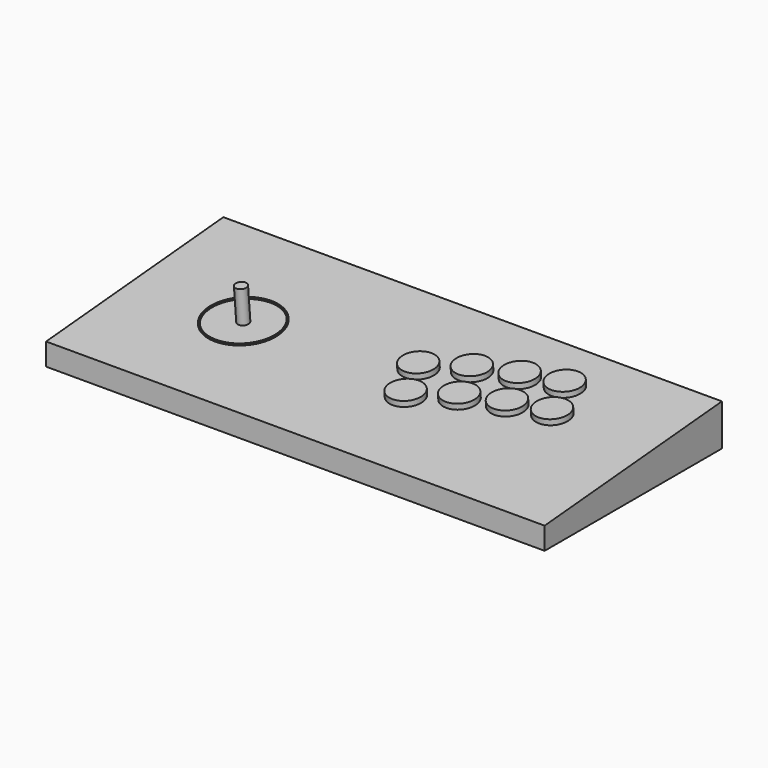
from build123d import *

# Parameters (mm, degrees)
F0_W     = 450
F0_H     = 200
F1_DEPTH = 20
F3_DEPTH = 450
F4_R     = 15
F5_DEPTH = 5
F4_R_2   = 32
F4_R_3   = 30.75
F6_DEPTH = 1
F4_R_4   = 5
F7_DEPTH = 30


with BuildPart() as f1:
    # F0 (on Top) → F1 (new body)
    with BuildSketch(Plane.XY):
        Rectangle(F0_W, F0_H)
    extrude(amount=F1_DEPTH)

    # F2 (on face) → F3 (join)
    with BuildSketch(Plane.YZ.offset(225)):
        Polygon((100, 37.4977327052), (-100, 20), (100, 20), align=None)
    extrude(amount=-F3_DEPTH)

    # F4 (on face) → F5 (join)
    with BuildSketch(Plane(origin=(0, -2.4960941261, 28.5304864135), x_dir=(1, 0, 0), z_dir=(0, -0.0871557427, 0.9961946981))):
        with Locations((17.8897663927, 19.1961097517)):
            Circle(F4_R)
        with Locations((33.6060567503, -14.8038902483)):
            Circle(F4_R)
        with Locations((51.8897663927, 37.2408752097)):
            Circle(F4_R)
        with Locations((67.6060567503, 3.2408752097)):
            Circle(F4_R)
        with Locations((85.8897663927, 48.6903541087)):
            Circle(F4_R)
        with Locations((101.6060567503, 14.6903541087)):
            Circle(F4_R)
        with Locations((119.8897663927, 57.0196919143)):
            Circle(F4_R)
        with Locations((135.6060567503, 23.0196919143)):
            Circle(F4_R)
    extrude(amount=F5_DEPTH)

    # F4 (on face) → F6 (join)
    with BuildSketch(Plane(origin=(0, -2.4960941261, 28.5304864135), x_dir=(1, 0, 0), z_dir=(0, -0.0871557427, 0.9961946981))):
        with Locations((-125, 0)):
            Circle(F4_R_2)
        with Locations((-125, 0)):
            Circle(F4_R_3, mode=Mode.SUBTRACT)
    extrude(amount=F6_DEPTH)

    # F4 (on face) → F7 (join)
    with BuildSketch(Plane(origin=(0, -2.4960941261, 28.5304864135), x_dir=(1, 0, 0), z_dir=(0, -0.0871557427, 0.9961946981))):
        with Locations((-125, 0)):
            Circle(F4_R_4)
    extrude(amount=F7_DEPTH)


solid = f1.part
